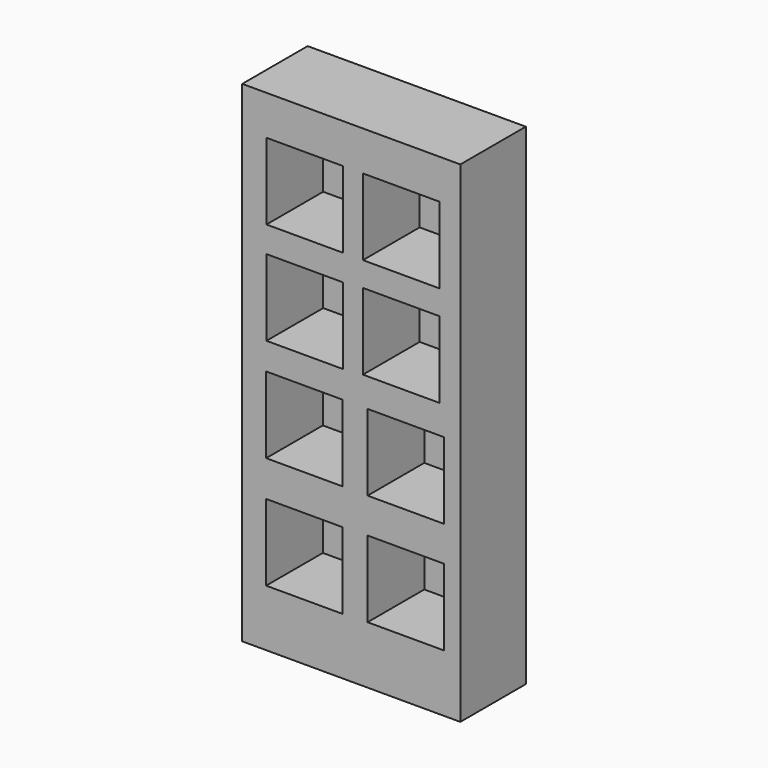
from build123d import *

# Parameters (mm, degrees)
F0_W     = 50.8
F0_H     = 114.3
F0_W_2   = 17.78
F0_H_2   = 17.78
F1_DEPTH = 19.05
F2_DEPTH = 2.54


with BuildPart() as f1:
    # F0 (on Front) → F1 (new body)
    with BuildSketch(Plane.XZ):
        Rectangle(F0_W, F0_H)
        with Locations((-10.937491, -35.031035)):
            Rectangle(F0_W_2, F0_H_2, mode=Mode.SUBTRACT)
        with Locations((-10.937491, -8.89)):
            Rectangle(F0_W_2, F0_H_2, mode=Mode.SUBTRACT)
        with Locations((12.68557, -34.845027)):
            Rectangle(F0_W_2, F0_H_2, mode=Mode.SUBTRACT)
        with Locations((12.68557, -8.89)):
            Rectangle(F0_W_2, F0_H_2, mode=Mode.SUBTRACT)
        with Locations((-10.86069, 15.196207)):
            Rectangle(F0_W_2, F0_H_2, mode=Mode.SUBTRACT)
        with Locations((-10.86069, 39.041553)):
            Rectangle(F0_W_2, F0_H_2, mode=Mode.SUBTRACT)
        with Locations((11.605173, 15.56323)):
            Rectangle(F0_W_2, F0_H_2, mode=Mode.SUBTRACT)
        with Locations((11.605173, 39.041553)):
            Rectangle(F0_W_2, F0_H_2, mode=Mode.SUBTRACT)
    extrude(amount=F1_DEPTH)


with BuildPart() as f2:
    # F0 (on Front) → F2 (new body)
    with BuildSketch(Plane.XZ):
        with Locations((12.68557, -8.89)):
            Rectangle(F0_W_2, F0_H_2)
        with Locations((11.605173, 15.56323)):
            Rectangle(F0_W_2, F0_H_2)
        with Locations((11.605173, 39.041553)):
            Rectangle(F0_W_2, F0_H_2)
        with Locations((-10.86069, 39.041553)):
            Rectangle(F0_W_2, F0_H_2)
        with Locations((-10.86069, 15.196207)):
            Rectangle(F0_W_2, F0_H_2)
        with Locations((-10.937491, -8.89)):
            Rectangle(F0_W_2, F0_H_2)
        with Locations((-10.937491, -35.031035)):
            Rectangle(F0_W_2, F0_H_2)
        with Locations((12.68557, -34.845027)):
            Rectangle(F0_W_2, F0_H_2)
    extrude(amount=F2_DEPTH)


solid = Compound([f1.part, f2.part])
